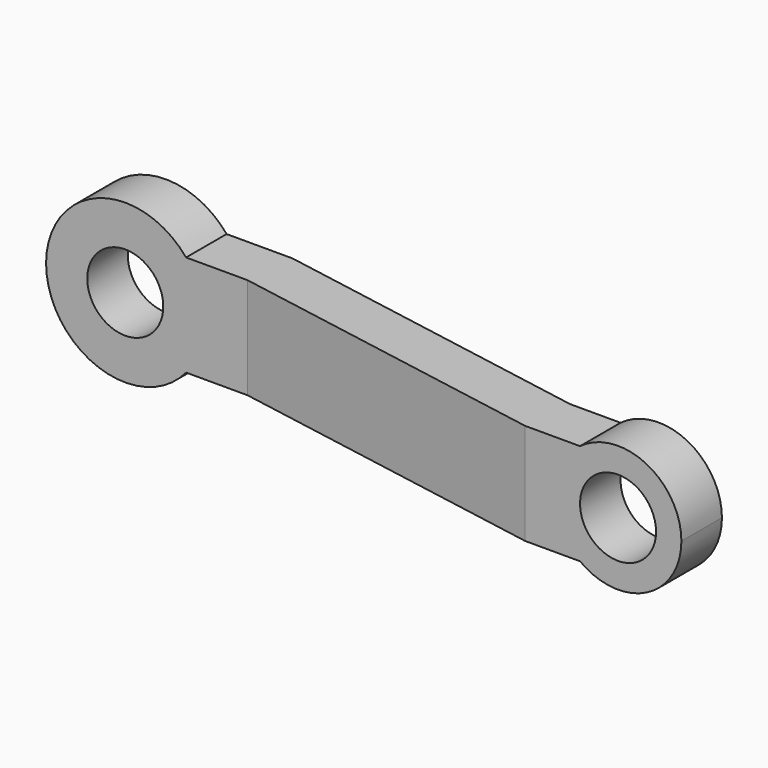
from build123d import *

# Parameters (mm, degrees)
F0_R     = 6
F1_DEPTH = 25
F3_DEPTH = 12.7


with BuildPart() as f1:
    # F0 (on Front) → F1 (new body)
    with BuildSketch(Plane.XZ):
        with BuildLine():
            ThreePointArc((9.604686, -8), (11.753905, -4.253905), (12.5, 0))
            ThreePointArc((12.5, 0), (11.753905, 4.253905), (9.604686, 8))
            ThreePointArc((9.604686, 8), (-12.5, 0), (9.604686, -8))
        make_face()
        Circle(F0_R, mode=Mode.SUBTRACT)
        with BuildLine():
            ThreePointArc((9.604686, 8), (11.753905, 4.253905), (12.5, 0))
            ThreePointArc((12.5, 0), (11.753905, -4.253905), (9.604686, -8))
            Line((9.604686, -8), (79, -8))
            ThreePointArc((79, -8), (75, 0), (79, 8))
            Line((79, 8), (9.604686, 8))
        make_face()
        with BuildLine():
            ThreePointArc((95, 0), (89.472136, 8.944272), (79, 8))
            ThreePointArc((79, 8), (75, 0), (79, -8))
            ThreePointArc((79, -8), (89.472136, -8.944272), (95, 0))
        make_face()
        with Locations((85, 0)):
            Circle(F0_R, mode=Mode.SUBTRACT)
    extrude(amount=F1_DEPTH)

    # F2 (on Top) → F3 (intersect, symmetric)
    with BuildSketch(Plane.XY):
        Polygon((20, 0), (-12.5, 0), (-12.5, -8), (19.300091, -8), (70.341627, -17), (95, -17), (95, -9), (71.041536, -9), align=None)
    extrude(amount=F3_DEPTH, both=True, mode=Mode.INTERSECT)


solid = f1.part
